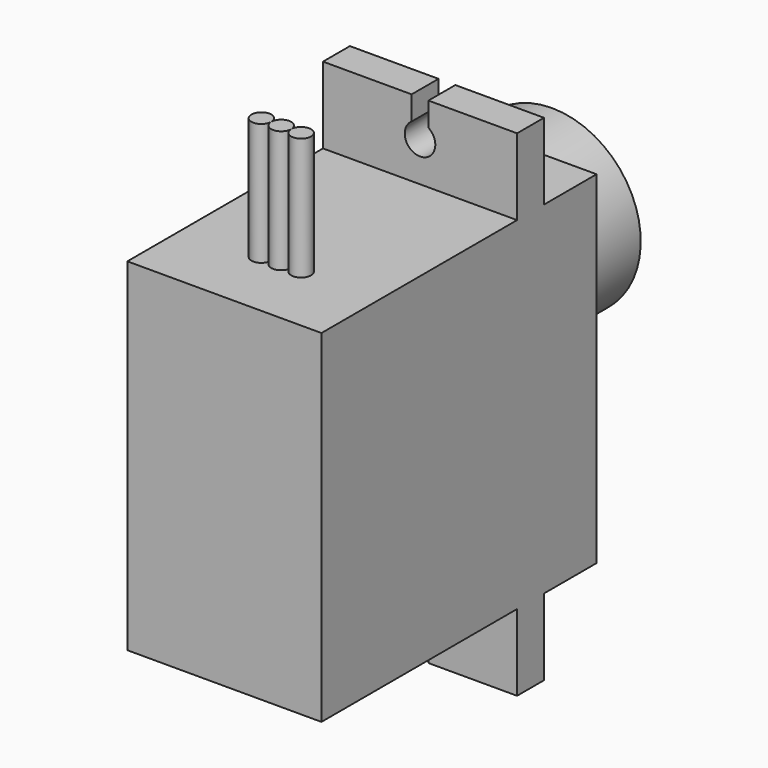
from build123d import *

# Parameters (mm, degrees)
CYLINDER019_R             = 0.65
CYLINDER019_DEPTH         = 10
CYLINDER020_R             = 0.65
CYLINDER020_DEPTH         = 10
CYLINDER021_R             = 0.65
CYLINDER021_DEPTH         = 10
CYLINDER022_R             = 1
CYLINDER022_DEPTH         = 10
BOX019_W                  = 10
BOX019_H                  = 1.1
BOX019_DEPTH              = 10
CYLINDER023_R             = 1
CYLINDER023_DEPTH         = 10
BOX020_W                  = 10
BOX020_H                  = 1.1
BOX020_DEPTH              = 10
FUSION020_PLACEMENT_ANGLE = 180
BOX018_W                  = 5
BOX018_H                  = 12.7
BOX018_DEPTH              = 4.3
BOX017_W                  = 5
BOX017_H                  = 12.7
BOX017_DEPTH              = 4.3
BOX016_W                  = 5
BOX016_H                  = 12.7
BOX016_DEPTH              = 16
BOX015_W                  = 5
BOX015_H                  = 12.7
BOX015_DEPTH              = 16
BOX014_W                  = 32.4
BOX014_H                  = 12.7
BOX014_DEPTH              = 22.5
CYLINDER018_R             = 2.3
CYLINDER018_DEPTH         = 29.4
CYLINDER017_R             = 2.5
CYLINDER017_DEPTH         = 26.8
CYLINDER016_R             = 5.8
CYLINDER016_DEPTH         = 26.8
FUSION026_PITCH_ANGLE     = 90
FUSION026_PLACEMENT_ANGLE = 90


with BuildPart() as obj1:
    # Cylinder019 → Cylinder019 (new body)
    with BuildSketch(Plane.ZY):
        Circle(CYLINDER019_R)
    extrude(amount=CYLINDER019_DEPTH)


with BuildPart() as obj2:
    # Cylinder020 → Cylinder020 (new body)
    with BuildSketch(Plane(origin=(0, 1.3, 0), x_dir=(0, 0, 1), z_dir=(-1, 0, 0))):
        Circle(CYLINDER020_R)
    extrude(amount=CYLINDER020_DEPTH)


with BuildPart() as cables002:
    # Cylinder021 → Cylinder021 (new body)
    with BuildSketch(Plane(origin=(0, -1.3, 0), x_dir=(0, 0, 1), z_dir=(-1, 0, 0))):
        Circle(CYLINDER021_R)
    extrude(amount=CYLINDER021_DEPTH)

    # Fusion024: union obj1, obj2
    add(obj1.part)
    add(obj2.part)


with BuildPart() as cables002_1:
    # Fusion024 placement: moved
    add(cables002.part.moved(Location((7, 6.35, 4.65))))


with BuildPart() as zylinder004:
    # Cylinder022 → Cylinder022 (new body)
    with BuildSketch(Plane.XY):
        Circle(CYLINDER022_R)
    extrude(amount=CYLINDER022_DEPTH)


with BuildPart() as obj3:
    # Box019 → Box019 (new body)
    with BuildSketch(Plane(origin=(-10, -0.55, 0), x_dir=(1, 0, 0), z_dir=(0, 0, 1))):
        with Locations((5, 0.55)):
            Rectangle(BOX019_W, BOX019_H)
    extrude(amount=BOX019_DEPTH)

    # Fusion021: union Zylinder004
    add(zylinder004.part)


with BuildPart() as obj3_1:
    # Fusion021 placement: moved
    add(obj3.part.moved(Location((2.4, 0, 0))))


with BuildPart() as zylinder005:
    # Cylinder023 → Cylinder023 (new body)
    with BuildSketch(Plane.XY):
        Circle(CYLINDER023_R)
    extrude(amount=CYLINDER023_DEPTH)


with BuildPart() as drillslots002:
    # Box020 → Box020 (new body)
    with BuildSketch(Plane(origin=(-10, -0.55, 0), x_dir=(1, 0, 0), z_dir=(0, 0, 1))):
        with Locations((5, 0.55)):
            Rectangle(BOX020_W, BOX020_H)
    extrude(amount=BOX020_DEPTH)

    # Fusion020: union Zylinder005
    add(zylinder005.part)


with BuildPart() as drillslots002_1:
    # Fusion020 placement: moved
    add(drillslots002.part.moved(Location((30, 0, 0))).rotate(Axis((30, 0, 0), (0, 0, 1)), FUSION020_PLACEMENT_ANGLE))

    # Fusion025: union obj3
    add(obj3_1.part)


with BuildPart() as drillslots002_2:
    # Fusion025 placement: moved
    add(drillslots002_1.part.moved(Location((0, 6.35, 13))))


with BuildPart() as obj4:
    # Box018 → Box018 (new body)
    with BuildSketch(Plane(origin=(27.4, 0, 0), x_dir=(1, 0, 0), z_dir=(0, 0, 1))):
        with Locations((2.5, 6.35)):
            Rectangle(BOX018_W, BOX018_H)
    extrude(amount=BOX018_DEPTH)


with BuildPart() as uppercuts002:
    # Box017 → Box017 (new body)
    with BuildSketch(Plane.XY):
        with Locations((2.5, 6.35)):
            Rectangle(BOX017_W, BOX017_H)
    extrude(amount=BOX017_DEPTH)

    # Fusion023: union obj4
    add(obj4.part)


with BuildPart() as uppercuts002_1:
    # Fusion023 placement: moved
    add(uppercuts002.part.moved(Location((0, 0, 18.2))))


with BuildPart() as obj5:
    # Box016 → Box016 (new body)
    with BuildSketch(Plane.XY):
        with Locations((2.5, 6.35)):
            Rectangle(BOX016_W, BOX016_H)
    extrude(amount=BOX016_DEPTH)


with BuildPart() as obj6:
    # Box015 → Box015 (new body)
    with BuildSketch(Plane(origin=(27.4, 0, 0), x_dir=(1, 0, 0), z_dir=(0, 0, 1))):
        with Locations((2.5, 6.35)):
            Rectangle(BOX015_W, BOX015_H)
    extrude(amount=BOX015_DEPTH)


with BuildPart() as cutbody002:
    # Box014 → Box014 (new body)
    with BuildSketch(Plane.XY):
        with Locations((16.2, 6.35)):
            Rectangle(BOX014_W, BOX014_H)
    extrude(amount=BOX014_DEPTH)

    # Cut008: cut obj6
    add(obj6.part, mode=Mode.SUBTRACT)

    # Cut009: cut obj5
    add(obj5.part, mode=Mode.SUBTRACT)

    # Cut010: cut UpperCuts002
    add(uppercuts002_1.part, mode=Mode.SUBTRACT)

    # Cut011: cut DrillSlots002
    add(drillslots002_2.part, mode=Mode.SUBTRACT)


with BuildPart() as axis002:
    # Cylinder018 → Cylinder018 (new body)
    with BuildSketch(Plane(origin=(10.8, 6.35, 0), x_dir=(1, 0, 0), z_dir=(0, 0, 1))):
        Circle(CYLINDER018_R)
    extrude(amount=CYLINDER018_DEPTH)


with BuildPart() as sideaxis002:
    # Cylinder017 → Cylinder017 (new body)
    with BuildSketch(Plane(origin=(17, 6.35, 0), x_dir=(1, 0, 0), z_dir=(0, 0, 1))):
        Circle(CYLINDER017_R)
    extrude(amount=CYLINDER017_DEPTH)


with BuildPart() as obj7:
    # Cylinder016 → Cylinder016 (new body)
    with BuildSketch(Plane(origin=(10.8, 6.35, 0), x_dir=(1, 0, 0), z_dir=(0, 0, 1))):
        Circle(CYLINDER016_R)
    extrude(amount=CYLINDER016_DEPTH)

    # Fusion022: union SideAxis002
    add(sideaxis002.part)

    # Fusion019: union Axis002
    add(axis002.part)

    # Fusion026: union Cables002, CutBody002
    add(cables002_1.part)
    add(cutbody002.part)


with BuildPart() as obj7_1:
    # Fusion026 pitch: moved
    add(obj7.part.rotate(Axis((0, 0, 0), (0, 1, 0)), FUSION026_PITCH_ANGLE))


with BuildPart() as obj7_2:
    # Fusion026 placement: moved
    add(obj7_1.part.moved(Location((6.3, -128.5, -71))).rotate(Axis((6.3, -128.5, -71), (0, 0, 1)), FUSION026_PLACEMENT_ANGLE))


solid = obj7_2.part
